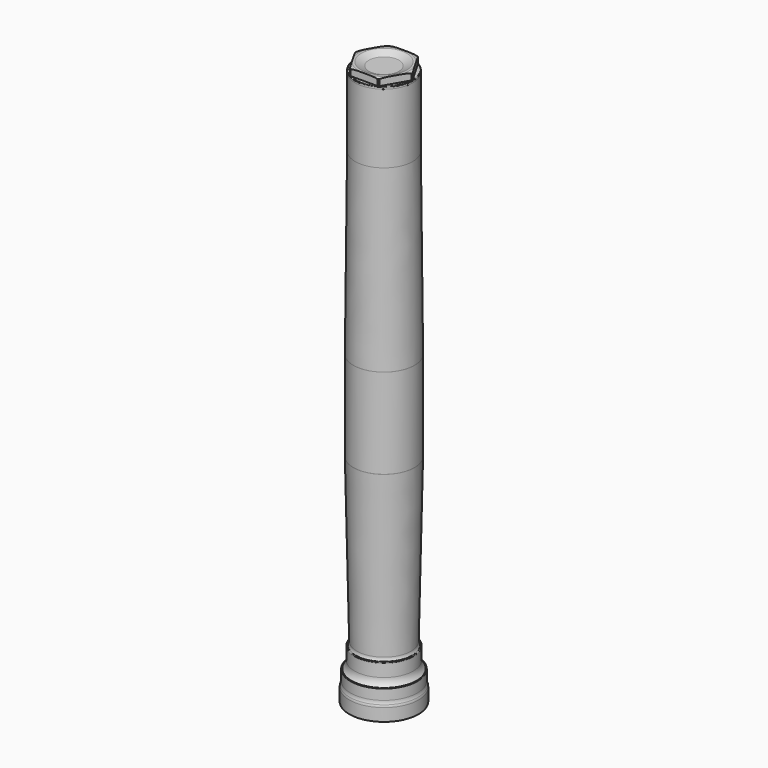
from build123d import *

# Parameters (mm, degrees)
F5_R     = 29.124545
F6_DEPTH = 6


with BuildPart() as f1:
    # F0 (on Front) → F1 (revolve)
    with BuildSketch(Plane.XZ):
        with BuildLine():
            Line((0, 30), (-25, 30))
            Line((-25, 30), (-25, -30))
            Line((-25, -30), (-26.499766, -184.975808))
            ThreePointArc((-26.499766, -184.975808), (-26.499941, -185), (-26.5, -185.024193))
            Line((-26.5, -185.024193), (-26.5, -262.947922))
            ThreePointArc((-26.5, -262.947922), (-26.499729, -262.999997), (-26.498915, -263.052066))
            Line((-26.498915, -263.052066), (-23.562914, -403.980116))
            ThreePointArc((-23.562914, -403.980116), (-23.746894, -405.431998), (-24.343381, -406.768416))
            ThreePointArc((-24.343381, -406.768416), (-24.52461, -406.938297), (-24.765226, -407))
            Line((-24.765226, -407), (-25, -407))
            ThreePointArc((-25, -407), (-25.353553, -407.146447), (-25.5, -407.5))
            Line((-25.5, -407.5), (-25.5, -418.524083))
            ThreePointArc((-25.5, -418.524083), (-26.19594, -421.994325), (-28.176129, -424.927883))
            ThreePointArc((-28.176129, -424.927883), (-28.256847, -424.981269), (-28.351792, -425))
            Line((-28.351792, -425), (-28.75, -425))
            ThreePointArc((-28.75, -425), (-28.926777, -425.073223), (-29, -425.25))
            Line((-29, -425.25), (-29, -434.127017))
            ThreePointArc((-29, -434.127017), (-29.155355, -435.695946), (-29.615385, -437.20394))
            ThreePointArc((-29.615385, -437.20394), (-29.902903, -438.146436), (-30, -439.127017))
            Line((-30, -439.127017), (-30, -450))
            Line((-30, -450), (0, -450))
            Line((0, -450), (0, 30))
        make_face()
    revolve(axis=Axis((0, 0, -210), (0, 0, -1)))


with BuildPart() as f3:
    # F2 (on Front) → F3 (revolve)
    with BuildSketch(Plane.XZ):
        with BuildLine():
            Line((6.5, 20.816969), (21.287144, 20.816969))
            Line((21.287144, 20.816969), (21.287144, 30))
            Line((21.287144, 30), (25, 30))
            Line((25, 30), (25, 31.5))
            ThreePointArc((25, 31.5), (24.853553, 31.853553), (24.5, 32))
            Line((24.5, 32), (24.5, 37.279915))
            ThreePointArc((24.5, 37.279915), (23.119781, 37.817194), (21.65, 38))
            Line((21.65, 38), (19.7, 38))
            Line((19.7, 38), (13, 35))
            Line((13, 35), (0, 35))
            Line((0, 35), (0, 30.933864))
            Line((0, 30.933864), (6.5, 30.933864))
            Line((6.5, 30.933864), (6.5, 20.816969))
        make_face()
    revolve(axis=Axis((0, 0, 33.853222), (0, 0, -1)))

    # F5 (on offset) → F6 (cut)
    with BuildSketch(Plane.XY.offset(38)):
        Circle(F5_R)
        Polygon((-24.826062, 0), (-12.413031, 21.5), (12.413031, 21.5), (24.826062, 0), (12.413031, -21.5), (-12.413031, -21.5), align=None, mode=Mode.SUBTRACT)
    extrude(amount=-F6_DEPTH, mode=Mode.SUBTRACT)


solid = Compound([f1.part, f3.part])
